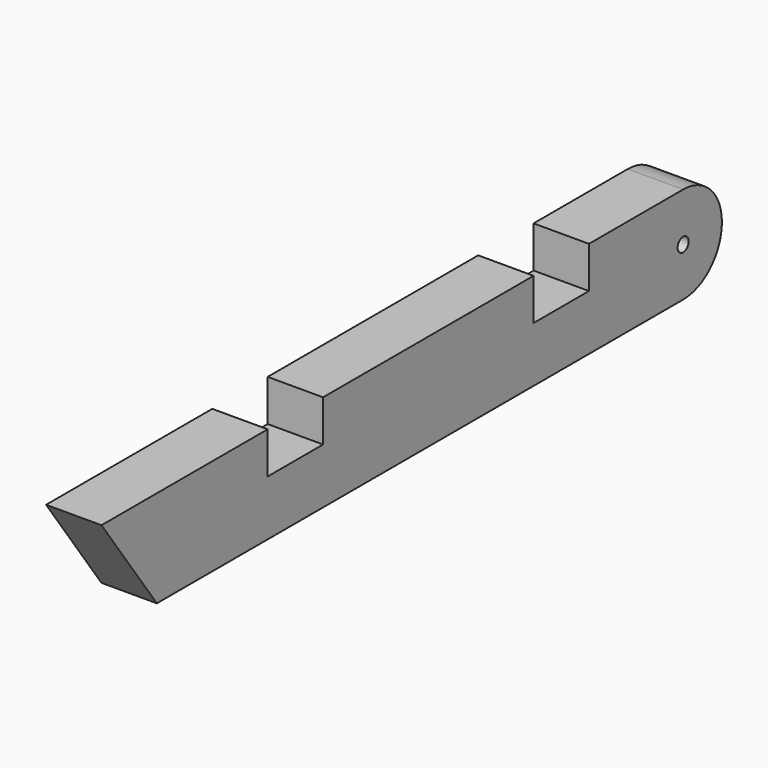
from build123d import *

# Parameters (mm, degrees)
F1_DEPTH = 20
F2_W     = 25
F2_H     = 15
F3_DEPTH = 20
F4_R     = 2.5
F5_DEPTH = 20


with BuildPart() as f1:
    # F0 (on Right) → F1 (new body)
    with BuildSketch(Plane.YZ):
        with BuildLine():
            ThreePointArc((122.5, -17.5), (140, 0), (122.5, 17.5))
            Line((122.5, 17.5), (-140, 17.5))
            Line((-140, 17.5), (-115, -17.5))
            Line((-115, -17.5), (122.5, -17.5))
        make_face()
    extrude(amount=F1_DEPTH)

    # F2 (on face) → F3 (cut)
    with BuildSketch(Plane.YZ.offset(20)):
        with Locations((-52.5, 10)):
            Rectangle(F2_W, F2_H)
        with Locations((67.5, 10)):
            Rectangle(F2_W, F2_H)
    extrude(amount=-F3_DEPTH, mode=Mode.SUBTRACT)

    # F4 (on face) → F5 (cut)
    with BuildSketch(Plane.YZ.offset(20)):
        with Locations((122.5, 0)):
            Circle(F4_R)
    extrude(amount=-F5_DEPTH, mode=Mode.SUBTRACT)


solid = f1.part
